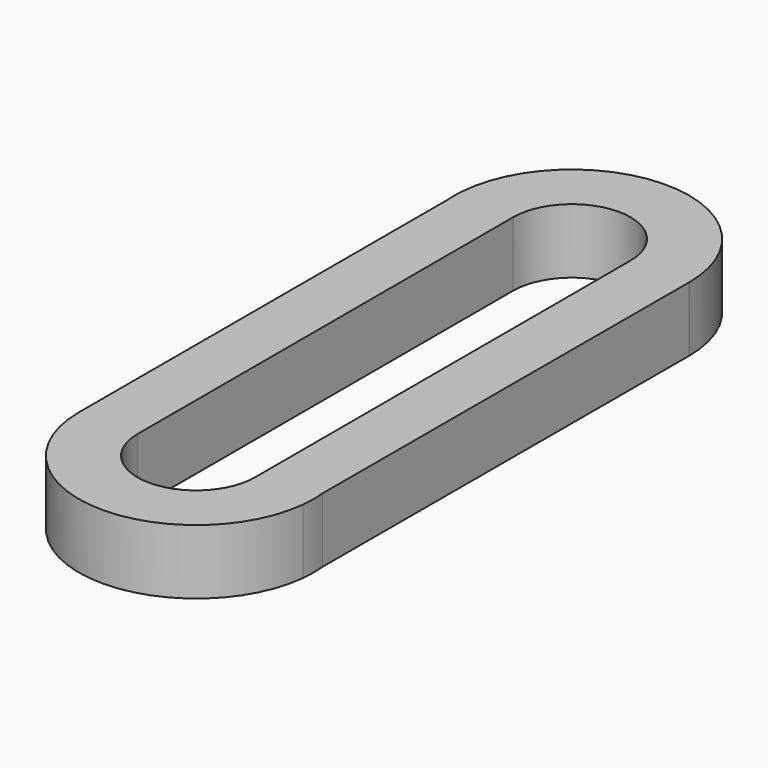
from build123d import *

# Parameters (mm, degrees)
F1_DEPTH = 7


with BuildPart() as f1:
    # F0 (on Top) → F1 (new body)
    with BuildSketch(Plane.XY):
        with BuildLine():
            Line((12.632251, -24.089953), (12.699988, 25.382611))
            ThreePointArc((12.699988, 25.382611), (12.699997, 25.391306), (12.7, 25.4))
            ThreePointArc((12.7, 25.4), (0.4712, 38.091256), (-12.665035, 26.341751))
            Line((-12.665035, 26.341751), (-12.666296, 24.475368))
            Line((-12.666296, 24.475368), (-12.699997, -25.391417))
            ThreePointArc((-12.699997, -25.391417), (-0.677549, -38.081913), (12.628617, -26.744633))
            Line((12.628617, -26.744633), (12.632251, -24.089953))
        make_face()
        with BuildLine():
            ThreePointArc((-6.35, 25.4), (0, 31.75), (6.35, 25.4))
            Line((6.35, 25.4), (6.35, -25.4))
            ThreePointArc((6.35, -25.4), (0, -31.75), (-6.35, -25.4))
            Line((-6.35, -25.4), (-6.35, 25.4))
        make_face(mode=Mode.SUBTRACT)
        with BuildLine():
            ThreePointArc((12.628617, -26.744633), (12.699988, -25.417389), (12.632251, -24.089953))
            Line((12.632251, -24.089953), (12.628617, -26.744633))
        make_face()
        with BuildLine():
            Line((-12.666296, 24.475368), (-12.665035, 26.341751))
            ThreePointArc((-12.665035, 26.341751), (-12.699997, 25.408583), (-12.666296, 24.475368))
        make_face()
    extrude(amount=F1_DEPTH)


solid = f1.part
